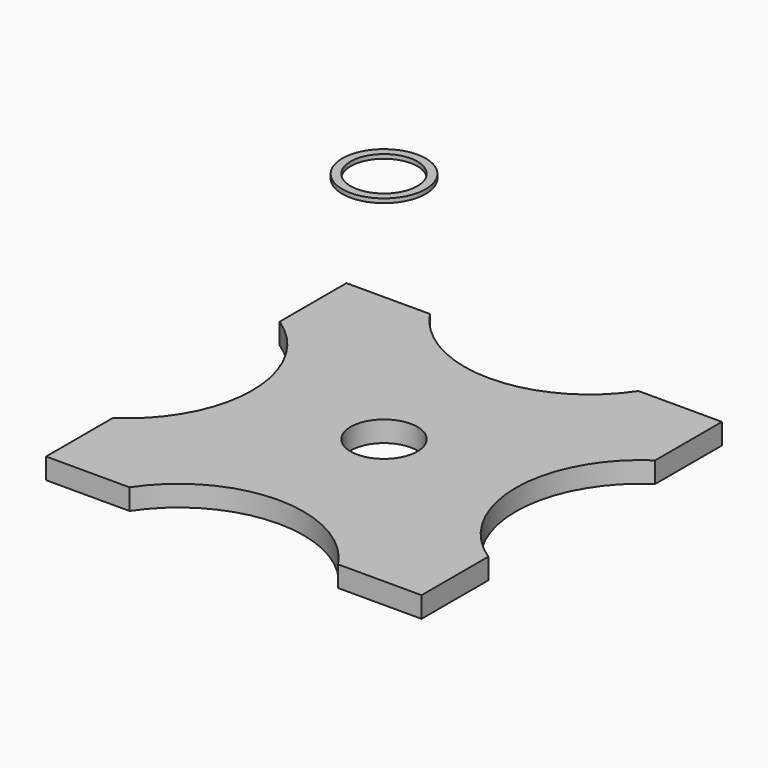
from build123d import *

# Parameters (mm, degrees)
F0_R     = 8
F3_DEPTH = 5
F2_R     = 10
F2_R_2   = 8
F4_DEPTH = 1


with BuildPart() as f3:
    # F0 (on Top) → F3 (new body)
    with BuildSketch(Plane.XY):
        with BuildLine():
            Line((25, -45), (45, -45))
            Line((45, -45), (45, -25))
            ThreePointArc((45, -25), (31.583124, 0), (45, 25))
            Line((45, 25), (45, 45))
            Line((45, 45), (25, 45))
            ThreePointArc((25, 45), (0, 31.583124), (-25, 45))
            Line((-25, 45), (-45, 45))
            Line((-45, 45), (-45, 25))
            ThreePointArc((-45, 25), (-31.583124, 0), (-45, -25))
            Line((-45, -25), (-45, -45))
            Line((-45, -45), (-25, -45))
            ThreePointArc((-25, -45), (0, -31.583124), (25, -45))
        make_face()
        Circle(F0_R, mode=Mode.SUBTRACT)
    extrude(amount=F3_DEPTH)


with BuildPart() as f4:
    # F2 (on offset) → F4 (new body)
    with BuildSketch(Plane.XY.offset(60)):
        Circle(F2_R)
        Circle(F2_R_2, mode=Mode.SUBTRACT)
    extrude(amount=F4_DEPTH)


solid = Compound([f3.part, f4.part])
